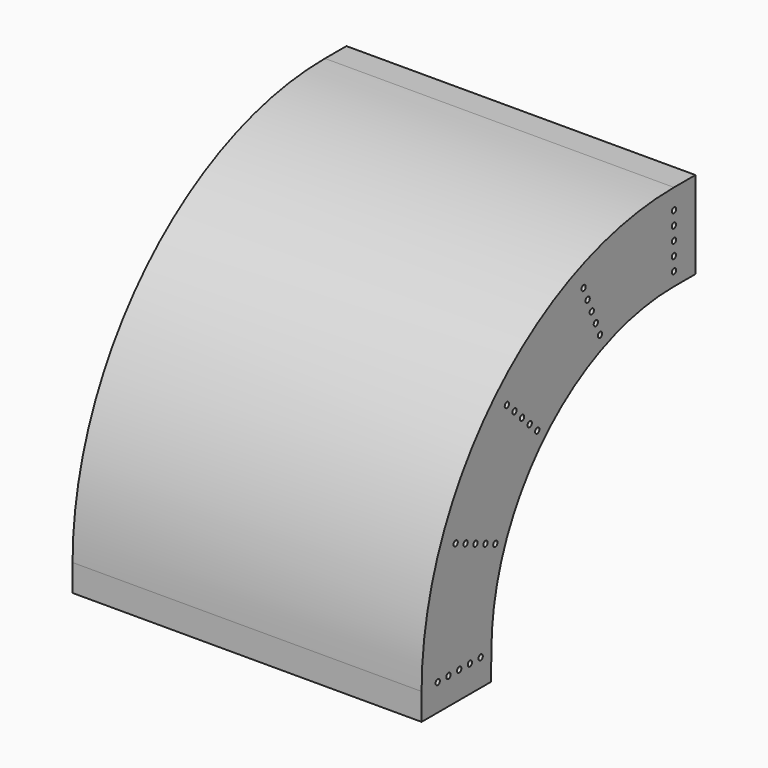
from build123d import *

# Parameters (mm, degrees)
F1_DEPTH = 6.35
F3_D     = 5.1054
F5_DEPTH = 165.1


with BuildPart() as f1:
    # F0 (on Right) → F1 (new body)
    with BuildSketch(Plane.YZ):
        with BuildLine():
            Line((25.4, 292.1), (0, 292.1))
            ThreePointArc((0, 292.1), (-206.5458907846, 206.5458907846), (-292.1, 0))
            Line((-292.1, 0), (-292.1, -25.4))
            Line((-292.1, -25.4), (-216.3804769516, -25.4))
            Line((-216.3804769516, -25.4), (-215.9, 0))
            ThreePointArc((-215.9, 0), (-152.6643540582, 152.6643540582), (0, 215.9))
            Line((0, 215.9), (25.4, 215.9))
            Line((25.4, 215.9), (25.4, 292.1))
        make_face()
    extrude(amount=F1_DEPTH)

    # F3 (through all)
    with Locations(Plane(origin=(0, 0, 0), x_dir=(0, 1, 0), z_dir=(-1, 0, 0))):
        with Locations((-170.6248663003, -170.6248663003), (-234.6654012579, -97.2015918207), (-279.4, 0), (0, -279.4), (0, -228.6), (-266.7, 0), (-188.5853785425, -188.5853785425), (-222.932131195, -92.3415122297), (-211.1988611321, -87.4814326387), (-106.9217510028, -258.1319413837), (-254, 0), (0, -266.7), (-246.3986713208, -102.0616714118), (-197.5656346635, -197.5656346635), (-228.6, 0), (-258.1319413837, -106.9217510028), (-102.0616714118, -246.3986713208), (-97.2015918207, -234.6654012579), (-161.6446101792, -161.6446101792), (-241.3, 0), (-179.6051224214, -179.6051224214), (-92.3415122297, -222.932131195), (0, 0), (0, -254), (-87.4814326387, -211.1988611321), (0, -241.3)):
            Hole(F3_D / 2)

    # F4 (on face) → F5 (join)
    with BuildSketch(Plane.YZ.offset(6.35)):
        with BuildLine():
            Line((-292.1, -25.4), (-292.1, 0))
            ThreePointArc((-292.1, 0), (-206.5458907846, 206.5458907846), (0, 292.1))
            Line((0, 292.1), (25.4, 292.1))
            Line((25.4, 292.1), (25.4, 298.45))
            Line((25.4, 298.45), (0, 298.45))
            ThreePointArc((0, 298.45), (-211.0360188451, 211.0360188451), (-298.45, 0))
            Line((-298.45, 0), (-298.45, -25.4))
            Line((-298.45, -25.4), (-292.1, -25.4))
        make_face()
    extrude(amount=-F5_DEPTH)

    # F6: F1 across face


with BuildPart() as f1_1:
    add(f1.part)
    add(f1.part.mirror(Plane(origin=(-158.75, -183.3754264806, 183.3754264806), x_dir=(0, 1, 0), z_dir=(-1, 0, 0))))


solid = f1_1.part
